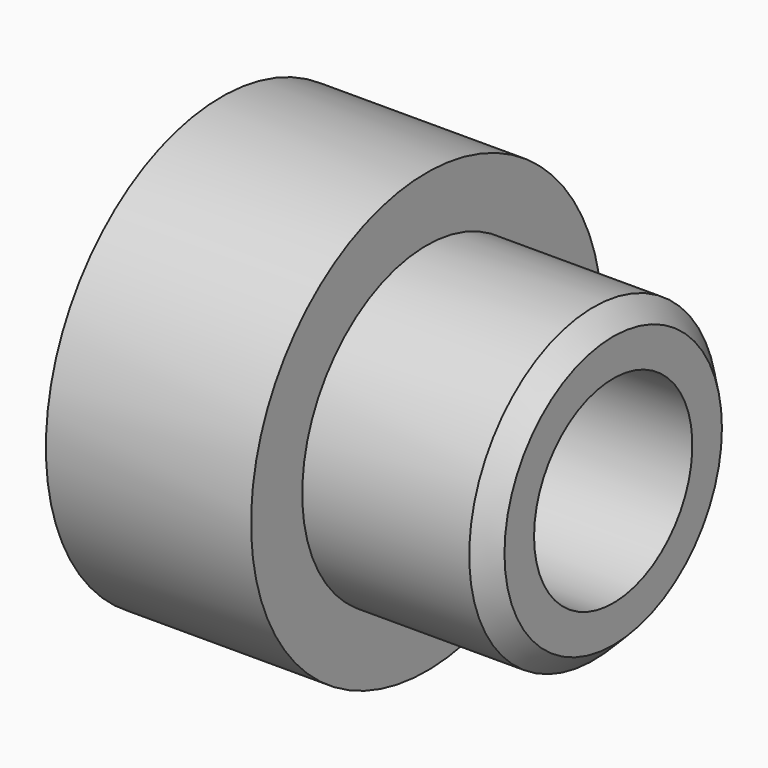
from build123d import *

# Parameters (mm, degrees)
F0_R     = 11.2014
F1_DEPTH = 10.47496
F2_R     = 7.9375
F3_DEPTH = 9.525
F5_D     = 10.1
F6_SIZE  = 1


with BuildPart() as f1:
    # F0 (on Right) → F1 (new body)
    with BuildSketch(Plane.YZ):
        Circle(F0_R)
    extrude(amount=F1_DEPTH)

    # F2 (on face) → F3 (join)
    with BuildSketch(Plane.YZ.offset(10.47496)):
        Circle(F2_R)
    extrude(amount=F3_DEPTH)

    # F5 (through all)
    with Locations(Plane.YZ.offset(19.99996)):
        with Locations((0, 0)):
            Hole(F5_D / 2)

    # F6
    f6_edges = [f1.edges().sort_by_distance(p)[0] for p in [
        (19.99996, -7.9375, 0),
    ]]
    chamfer(f6_edges, length=F6_SIZE)


solid = f1.part
